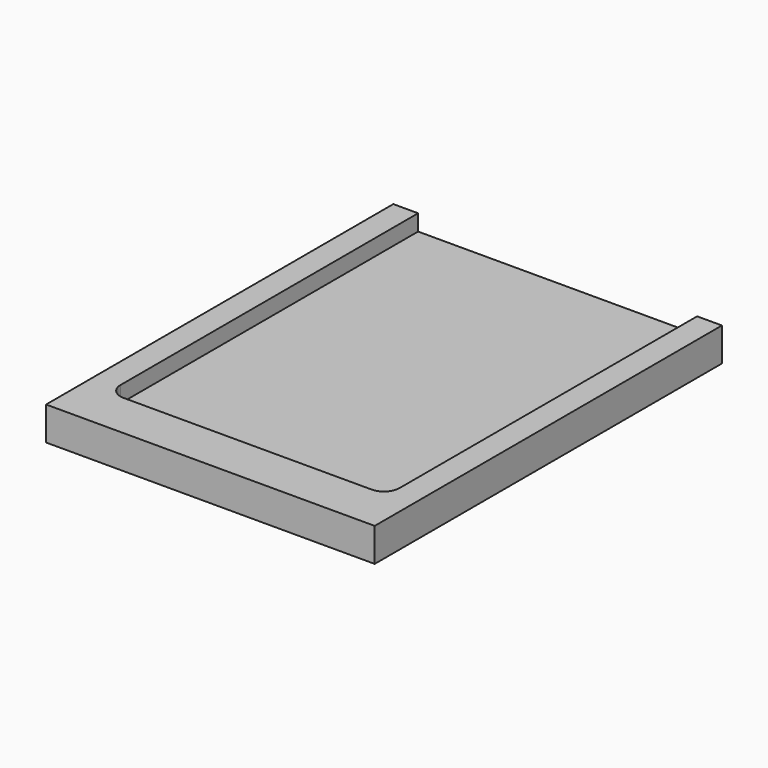
from build123d import *

# Parameters (mm, degrees)
F0_W     = 67.31
F0_H     = 88.9
F1_DEPTH = 6.858
F3_DEPTH = 3.302


with BuildPart() as f1:
    # F0 (on Top) → F1 (new body)
    with BuildSketch(Plane.XY):
        with Locations((-33.655, 72.61925)):
            Rectangle(F0_W, F0_H)
    extrude(amount=F1_DEPTH)

    # F2 (on face) → F3 (cut)
    with BuildSketch(Plane.XY.offset(6.858)):
        with BuildLine():
            Line((-5.08, 117.06925), (-62.23, 117.06925))
            Line((-62.23, 117.06925), (-62.23, 40.86925))
            ThreePointArc((-62.23, 40.86925), (-61.300064, 38.624186), (-59.055, 37.69425))
            Line((-59.055, 37.69425), (-8.255, 37.69425))
            ThreePointArc((-8.255, 37.69425), (-6.009936, 38.624186), (-5.08, 40.86925))
            Line((-5.08, 40.86925), (-5.08, 117.06925))
        make_face()
    extrude(amount=-F3_DEPTH, mode=Mode.SUBTRACT)


solid = f1.part
